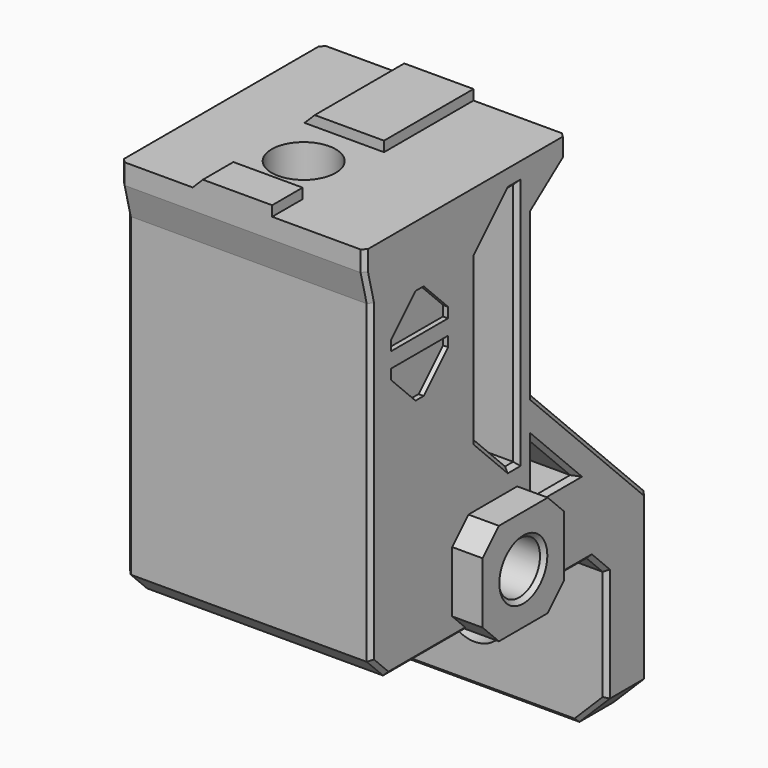
from build123d import *

# Parameters (mm, degrees)
CYLINDER018_R                = 3.15
CYLINDER018_DEPTH            = 10
BOX035_W                     = 24
BOX035_H                     = 5
BOX035_DEPTH                 = 16
BOX034_W                     = 24
BOX034_H                     = 16
BOX034_DEPTH                 = 8
CHAMFER003068012002033_SIZE  = 2
CHAMFER003068012002034_SIZE  = 5
CHAMFER003068012002035_SIZE  = 3
CHAMFER003068012002036_SIZE  = 0.4
CYLINDER016_R                = 3.15
CYLINDER016_DEPTH            = 43
CYLINDER015_R                = 2
CYLINDER015_DEPTH            = 39
CYLINDER017_R                = 2.55
CYLINDER017_DEPTH            = 6
BOX030_W                     = 1
BOX030_H                     = 7
BOX030_DEPTH                 = 4
BOX031_W                     = 1
BOX031_H                     = 7
BOX031_DEPTH                 = 4
CHAMFER003068012002027_SIZE  = 3
BOX025_W                     = 4
BOX025_H                     = 10
BOX025_DEPTH                 = 10
CHAMFER003068012002021_SIZE  = 2
BOX026_W                     = 25
BOX026_H                     = 5
BOX026_DEPTH                 = 24
CHAMFER003068012002018_SIZE  = 4
BOX024_W                     = 24
BOX024_H                     = 20
BOX024_DEPTH                 = 38
CHAMFER003068012002019_SIZE  = 2
CHAMFER003068012002020_SIZE  = 2
BOX032_W                     = 24
BOX032_H                     = 2
BOX032_DEPTH                 = 5
CHAMFER003068012002028_SIZE2 = 0.75
CHAMFER003068012002028_SIZE  = 3
BOX033_W                     = 24
BOX033_H                     = 5
BOX033_DEPTH                 = 5
CHAMFER003068012002029_SIZE2 = 4
CHAMFER003068012002029_SIZE  = 3
BOX027_W                     = 7.8
BOX027_H                     = 11
BOX027_DEPTH                 = 1
BOX028_W                     = 7.8
BOX028_H                     = 3.75
BOX028_DEPTH                 = 1
CHAMFER003068012002030_SIZE  = 0.99
CHAMFER003068012002031_SIZE  = 0.4
CHAMFER003068012002032_SIZE  = 0.4
BOX036_W                     = 7.8
BOX036_H                     = 1
BOX036_DEPTH                 = 7
CHAMFER003068012002037_SIZE  = 0.99
BOX037_W                     = 24
BOX037_H                     = 10
BOX037_DEPTH                 = 10
CHAMFER003068012002039_SIZE  = 9
BOX038_W                     = 24
BOX038_H                     = 10
BOX038_DEPTH                 = 10
CHAMFER003068012002038_SIZE  = 9
CHAMFER003068012002040_SIZE  = 0.4


with BuildPart() as cylinder018:
    # Cylinder018 → Cylinder018 (new body)
    with BuildSketch(Plane(origin=(-15, 25, -19), x_dir=(1, 0, 0), z_dir=(0, 1, 0))):
        Circle(CYLINDER018_R)
    extrude(amount=CYLINDER018_DEPTH)


with BuildPart() as cube035:
    # Box035 → Box035 (new body)
    with BuildSketch(Plane(origin=(-26, 27, -26), x_dir=(1, 0, 0), z_dir=(0, 0, 1))):
        with Locations((12, 2.5)):
            Rectangle(BOX035_W, BOX035_H)
    extrude(amount=BOX035_DEPTH)


with BuildPart() as chamfer003068012002036:
    # Box034 → Box034 (new body)
    with BuildSketch(Plane(origin=(-26, 16, -10), x_dir=(1, 0, 0), z_dir=(0, 0, 1))):
        with Locations((12, 8)):
            Rectangle(BOX034_W, BOX034_H)
    extrude(amount=BOX034_DEPTH)

    # Fusion001002012017: union Cube035
    add(cube035.part)

    # Cut001019: cut Cylinder018
    add(cylinder018.part, mode=Mode.SUBTRACT)

    # Chamfer003068012002033
    chamfer003068012002033_edges = [chamfer003068012002036.edges().sort_by_distance(p)[0] for p in [
        (-14, 27, -10),
    ]]
    chamfer(chamfer003068012002033_edges, length=CHAMFER003068012002033_SIZE)

    # Chamfer003068012002034
    chamfer003068012002034_edges = [chamfer003068012002036.edges().sort_by_distance(p)[0] for p in [
        (-14, 32, -2),
    ]]
    chamfer(chamfer003068012002034_edges, length=CHAMFER003068012002034_SIZE)

    # Chamfer003068012002035
    chamfer003068012002035_edges = [chamfer003068012002036.edges().sort_by_distance(p)[0] for p in [
        (-26, 29.5, -26),
        (-2, 29.5, -26),
    ]]
    chamfer(chamfer003068012002035_edges, length=CHAMFER003068012002035_SIZE)

    # Chamfer003068012002036
    chamfer003068012002036_edges = [chamfer003068012002036.edges().sort_by_distance(p)[0] for p in [
        (-26, 32, -15),
        (-26, 27, -17.5),
        (-26, 26, -11),
        (-26, 20.5, -10),
        (-26, 21.5, -2),
        (-26, 29.5, -4.5),
        (-2, 32, -15),
        (-3.5, 32, -24.5),
        (-14, 32, -26),
        (-24.5, 32, -24.5),
        (-24.5, 27, -24.5),
        (-2, 29.5, -4.5),
        (-2, 27, -17.5),
        (-3.5, 27, -24.5),
        (-14, 27, -26),
        (-2, 21.5, -2),
        (-2, 26, -11),
        (-2, 20.5, -10),
    ]]
    chamfer(chamfer003068012002036_edges, length=CHAMFER003068012002036_SIZE)


with BuildPart() as cylinder016:
    # Cylinder016 → Cylinder016 (new body)
    with BuildSketch(Plane(origin=(-15, 6, -11), x_dir=(1, 0, 0), z_dir=(0, 0, 1))):
        Circle(CYLINDER016_R)
    extrude(amount=CYLINDER016_DEPTH)


with BuildPart() as cylinder015:
    # Cylinder015 → Cylinder015 (new body)
    with BuildSketch(Plane(origin=(1, 13, -5), x_dir=(0, 0, 1), z_dir=(-1, 0, 0))):
        Circle(CYLINDER015_R)
    extrude(amount=CYLINDER015_DEPTH)


with BuildPart() as fusion001002012010:
    # Cylinder017 → Cylinder017 (new body)
    with BuildSketch(Plane(origin=(1, 13, -5), x_dir=(0, 0, 1), z_dir=(-1, 0, 0))):
        Circle(CYLINDER017_R)
    extrude(amount=CYLINDER017_DEPTH)

    # Fusion001002012010: union Cylinder015
    add(cylinder015.part)


with BuildPart() as cube030:
    # Box030 → Box030 (new body)
    with BuildSketch(Plane(origin=(-2.5, 0.5, 16.5), x_dir=(1, 0, 0), z_dir=(0, 0, 1))):
        with Locations((0.5, 3.5)):
            Rectangle(BOX030_W, BOX030_H)
    extrude(amount=BOX030_DEPTH)


with BuildPart() as chamfer003068012002027:
    # Box031 → Box031 (new body)
    with BuildSketch(Plane(origin=(-2.5, 0.5, 11), x_dir=(1, 0, 0), z_dir=(0, 0, 1))):
        with Locations((0.5, 3.5)):
            Rectangle(BOX031_W, BOX031_H)
    extrude(amount=BOX031_DEPTH)

    # Fusion001002012012: union Cube030
    add(cube030.part)

    # Chamfer003068012002027
    chamfer003068012002027_edges = [chamfer003068012002027.edges().sort_by_distance(p)[0] for p in [
        (-2, 0.5, 11),
        (-2, 7.5, 11),
        (-2, 0.5, 20.5),
        (-2, 7.5, 20.5),
    ]]
    chamfer(chamfer003068012002027_edges, length=CHAMFER003068012002027_SIZE)


with BuildPart() as chamfer003068012002027_1:
    # Chamfer003068012002027 placement: moved
    add(chamfer003068012002027.part.moved(Location((0, 0, 1.5))))


with BuildPart() as chamfer003068012002021:
    # Box025 → Box025 (new body)
    with BuildSketch(Plane(origin=(-3, 8, -10), x_dir=(1, 0, 0), z_dir=(0, 0, 1))):
        with Locations((2, 5)):
            Rectangle(BOX025_W, BOX025_H)
    extrude(amount=BOX025_DEPTH)

    # Chamfer003068012002021
    chamfer003068012002021_edges = [chamfer003068012002021.edges().sort_by_distance(p)[0] for p in [
        (-1, 8, -10),
        (-1, 8, 0),
        (-1, 18, -10),
        (-1, 18, 0),
    ]]
    chamfer(chamfer003068012002021_edges, length=CHAMFER003068012002021_SIZE)


with BuildPart() as chamfer003068012002018:
    # Box026 → Box026 (new body)
    with BuildSketch(Plane(origin=(-26, 11, 2), x_dir=(1, 0, 0), z_dir=(0, 0, 1))):
        with Locations((12.5, 2.5)):
            Rectangle(BOX026_W, BOX026_H)
    extrude(amount=BOX026_DEPTH)

    # Chamfer003068012002018
    chamfer003068012002018_edges = [chamfer003068012002018.edges().sort_by_distance(p)[0] for p in [
        (-13.5, 11, 2),
        (-13.5, 11, 26),
    ]]
    chamfer(chamfer003068012002018_edges, length=CHAMFER003068012002018_SIZE)


with BuildPart() as chamfer003068012002020:
    # Box024 → Box024 (new body)
    with BuildSketch(Plane(origin=(-26, -2, -10), x_dir=(1, 0, 0), z_dir=(0, 0, 1))):
        with Locations((12, 10)):
            Rectangle(BOX024_W, BOX024_H)
    extrude(amount=BOX024_DEPTH)

    # Cut001015: cut Chamfer003068012002018
    add(chamfer003068012002018.part, mode=Mode.SUBTRACT)

    # Chamfer003068012002019
    chamfer003068012002019_edges = [chamfer003068012002020.edges().sort_by_distance(p)[0] for p in [
        (-14, 18, -10),
    ]]
    chamfer(chamfer003068012002019_edges, length=CHAMFER003068012002019_SIZE)

    # Chamfer003068012002020
    chamfer003068012002020_edges = [chamfer003068012002020.edges().sort_by_distance(p)[0] for p in [
        (-14, -2, -10),
    ]]
    chamfer(chamfer003068012002020_edges, length=CHAMFER003068012002020_SIZE)


with BuildPart() as chamfer003068012002028:
    # Box032 → Box032 (new body)
    with BuildSketch(Plane(origin=(-26, -2.75, 23), x_dir=(1, 0, 0), z_dir=(0, 0, 1))):
        with Locations((12, 1)):
            Rectangle(BOX032_W, BOX032_H)
    extrude(amount=BOX032_DEPTH)

    # Chamfer003068012002028
    chamfer003068012002028_edges = [chamfer003068012002028.edges().sort_by_distance(p)[0] for p in [
        (-14, -2.75, 23),
    ]]
    chamfer003068012002028_side = chamfer003068012002028.faces().sort_by_distance((-14, -2.75, 25.5))[0]
    chamfer(chamfer003068012002028_edges, length=CHAMFER003068012002028_SIZE, length2=CHAMFER003068012002028_SIZE2, reference=chamfer003068012002028_side)


with BuildPart() as fusion001002012013:
    # Box033 → Box033 (new body)
    with BuildSketch(Plane(origin=(-26, 17, 23), x_dir=(1, 0, 0), z_dir=(0, 0, 1))):
        with Locations((12, 2.5)):
            Rectangle(BOX033_W, BOX033_H)
    extrude(amount=BOX033_DEPTH)

    # Chamfer003068012002029
    chamfer003068012002029_edges = [fusion001002012013.edges().sort_by_distance(p)[0] for p in [
        (-14, 22, 23),
    ]]
    chamfer003068012002029_side = fusion001002012013.faces().sort_by_distance((-14, 22, 25.5))[0]
    chamfer(chamfer003068012002029_edges, length=CHAMFER003068012002029_SIZE, length2=CHAMFER003068012002029_SIZE2, reference=chamfer003068012002029_side)

    # Fusion001002012013: union Chamfer003068012002020, Chamfer003068012002028
    add(chamfer003068012002020.part)
    add(chamfer003068012002028.part)


with BuildPart() as cube027:
    # Box027 → Box027 (new body)
    with BuildSketch(Plane(origin=(-18.9, 11, 28), x_dir=(1, 0, 0), z_dir=(0, 0, 1))):
        with Locations((3.9, 5.5)):
            Rectangle(BOX027_W, BOX027_H)
    extrude(amount=BOX027_DEPTH)


with BuildPart() as fusion001002012018:
    # Box028 → Box028 (new body)
    with BuildSketch(Plane(origin=(-18.9, -2.75, 28), x_dir=(1, 0, 0), z_dir=(0, 0, 1))):
        with Locations((3.9, 1.875)):
            Rectangle(BOX028_W, BOX028_H)
    extrude(amount=BOX028_DEPTH)

    # Fusion001002012014: union Cube027
    add(cube027.part)

    # Chamfer003068012002030
    chamfer003068012002030_edges = [fusion001002012018.edges().sort_by_distance(p)[0] for p in [
        (-18.9, -0.875, 29),
        (-18.9, 16.5, 29),
    ]]
    chamfer(chamfer003068012002030_edges, length=CHAMFER003068012002030_SIZE)

    # Fusion001002012015: union Fusion001002012013
    add(fusion001002012013.part)

    # Chamfer003068012002031
    chamfer003068012002031_edges = [fusion001002012018.edges().sort_by_distance(p)[0] for p in [
        (-26, -2.75, 27),
        (-2, -2.75, 27),
        (-26, -2.375, 24.5),
        (-2, -2.375, 24.5),
        (-2, -2, 7.5),
        (-26, -2, 7.5),
        (-26, -1, -9),
        (-2, -1, -9),
        (-26, 8, -10),
        (-2, 8, -10),
        (-2, 18, 7.5),
        (-26, 18, 7.5),
        (-26, 17, -9),
        (-2, 17, -9),
        (-26, 20, 24.5),
        (-2, 20, 24.5),
        (-26, 22, 27),
        (-26, 13, 4),
        (-26, 15.5, 2),
        (-26, 16, 14),
        (-26, 15.5, 26),
        (-26, 13, 24),
        (-26, 11, 14),
        (-2, 13, 4),
        (-2, 11, 14),
        (-2, 15.5, 2),
        (-2, 13, 24),
        (-2, 16, 14),
        (-2, 15.5, 26),
        (-2, 22, 27),
    ]]
    chamfer(chamfer003068012002031_edges, length=CHAMFER003068012002031_SIZE)

    # Fusion001002012016: union Chamfer003068012002021
    add(chamfer003068012002021.part)

    # Cut001016: cut Chamfer003068012002027
    add(chamfer003068012002027_1.part, mode=Mode.SUBTRACT)

    # Cut001017: cut Fusion001002012010
    add(fusion001002012010.part, mode=Mode.SUBTRACT)

    # Cut001018: cut Cylinder016
    add(cylinder016.part, mode=Mode.SUBTRACT)

    # Chamfer003068012002032
    chamfer003068012002032_edges = [fusion001002012018.edges().sort_by_distance(p)[0] for p in [
        (-26, 13, -7),
        (-18.15, 6, -10),
        (1, 13, -7.55),
    ]]
    chamfer(chamfer003068012002032_edges, length=CHAMFER003068012002032_SIZE)

    # Fusion001002012018: union Chamfer003068012002036
    add(chamfer003068012002036.part)


with BuildPart() as fusion001002012019:
    # Box036 → Box036 (new body)
    with BuildSketch(Plane(origin=(-18.9, 32, -14), x_dir=(1, 0, 0), z_dir=(0, 0, 1))):
        with Locations((3.9, 0.5)):
            Rectangle(BOX036_W, BOX036_H)
    extrude(amount=BOX036_DEPTH)

    # Chamfer003068012002037
    chamfer003068012002037_edges = [fusion001002012019.edges().sort_by_distance(p)[0] for p in [
        (-18.9, 33, -10.5),
    ]]
    chamfer(chamfer003068012002037_edges, length=CHAMFER003068012002037_SIZE)

    # Fusion001002012019: union Fusion001002012018
    add(fusion001002012018.part)


with BuildPart() as chamfer003068012002039:
    # Box037 → Box037 (new body)
    with BuildSketch(Plane(origin=(-26, 13, -7), x_dir=(1, 0, 0), z_dir=(0, 0, 1))):
        with Locations((12, 5)):
            Rectangle(BOX037_W, BOX037_H)
    extrude(amount=BOX037_DEPTH)

    # Chamfer003068012002039
    chamfer003068012002039_edges = [chamfer003068012002039.edges().sort_by_distance(p)[0] for p in [
        (-14, 23, 3),
    ]]
    chamfer(chamfer003068012002039_edges, length=CHAMFER003068012002039_SIZE)


with BuildPart() as chamfer003068012002039_1:
    # Chamfer003068012002039 placement: moved
    add(chamfer003068012002039.part.moved(Location((0, 2, 2))))


with BuildPart() as fusion001002012020:
    # Box038 → Box038 (new body)
    with BuildSketch(Plane(origin=(-26, 17, -3), x_dir=(1, 0, 0), z_dir=(0, 0, 1))):
        with Locations((12, 5)):
            Rectangle(BOX038_W, BOX038_H)
    extrude(amount=BOX038_DEPTH)

    # Chamfer003068012002038
    chamfer003068012002038_edges = [fusion001002012020.edges().sort_by_distance(p)[0] for p in [
        (-14, 27, 7),
    ]]
    chamfer(chamfer003068012002038_edges, length=CHAMFER003068012002038_SIZE)

    # Cut001022: cut Chamfer003068012002039
    add(chamfer003068012002039_1.part, mode=Mode.SUBTRACT)

    # Chamfer003068012002040
    chamfer003068012002040_edges = [fusion001002012020.edges().sort_by_distance(p)[0] for p in [
        (-26, 22.5, 2.5),
        (-26, 25.5, -3),
        (-26, 20.5, 0.5),
        (-26, 17, 5.5),
        (-2, 22.5, 2.5),
        (-2, 25.5, -3),
        (-2, 20.5, 0.5),
        (-2, 17, 5.5),
    ]]
    chamfer(chamfer003068012002040_edges, length=CHAMFER003068012002040_SIZE)

    # Fusion001002012020: union Fusion001002012019
    add(fusion001002012019.part)


solid = fusion001002012020.part
